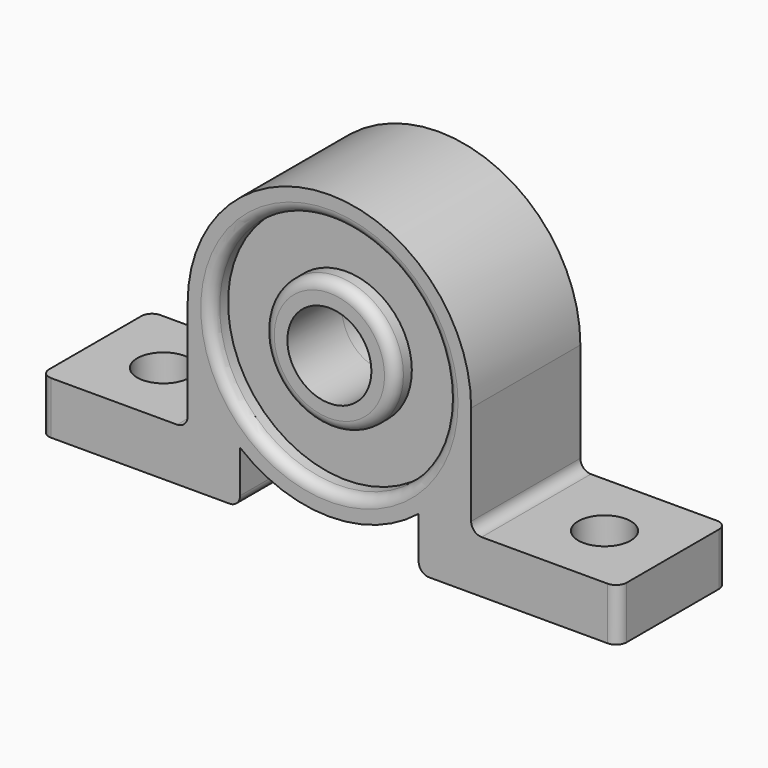
from build123d import *

# Parameters (mm, degrees)
F0_R          = 4
F1_DEPTH      = 6.5
F1_DEPTH_BACK = 6.5
F2_R          = 2.5
F3_DEPTH      = 25
F4_R          = 1
F5_R          = 11.25
F5_R_2        = 6.25
F6_DEPTH      = 2
F7_R          = 11.25
F7_R_2        = 6.25
F8_DEPTH      = 1.5
F9_R          = 1


with BuildPart() as f1:
    # F0 (on Front) → F1 (new body, two sides)
    with BuildSketch(Plane.XZ) as f1_sk:
        with BuildLine():
            Line((-27.5, 5), (-27.5, 0))
            Line((-27.5, 0), (-8.5, 0))
            Line((-8.5, 0), (-8.5, 5))
            Line((-8.5, 5), (-8.5, 5.011912))
            ThreePointArc((-8.5, 5.011912), (-8.492643, 5.005953), (-8.485281, 5))
            ThreePointArc((-8.485281, 5), (0, 2), (8.485281, 5))
            ThreePointArc((8.485281, 5), (8.492643, 5.005953), (8.5, 5.011912))
            Line((8.5, 5.011912), (8.5, 5))
            Line((8.5, 5), (8.5, 0))
            Line((8.5, 0), (27.5, 0))
            Line((27.5, 0), (27.5, 5))
            Line((27.5, 5), (13.5, 5))
            Line((13.5, 5), (13.5, 15.5))
            ThreePointArc((13.5, 15.5), (0, 29), (-13.5, 15.5))
            Line((-13.5, 15.5), (-13.5, 5))
            Line((-13.5, 5), (-27.5, 5))
        make_face()
        with Locations((0, 15.5)):
            Circle(F0_R, mode=Mode.SUBTRACT)
        with BuildLine():
            Line((-8.5, 5.011912), (-8.5, 5))
            Line((-8.5, 5), (-8.485281, 5))
            ThreePointArc((-8.485281, 5), (-8.492643, 5.005953), (-8.5, 5.011912))
        make_face()
        with BuildLine():
            ThreePointArc((8.5, 5.011912), (8.492643, 5.005953), (8.485281, 5))
            Line((8.485281, 5), (8.5, 5))
            Line((8.5, 5), (8.5, 5.011912))
        make_face()
    extrude(amount=F1_DEPTH)
    extrude(f1_sk.sketch, amount=-F1_DEPTH_BACK)

    # F2 (on face) → F3 (cut)
    with BuildSketch(Plane.XY.offset(5)):
        with Locations((-21, 0)):
            Circle(F2_R)
        with Locations((21, 0)):
            Circle(F2_R)
    extrude(amount=-F3_DEPTH, mode=Mode.SUBTRACT)

    # F4
    f4_edges = [f1.edges().sort_by_distance(p)[0] for p in [
        (-27.5, -6.5, 2.5),
        (-27.5, 6.5, 2.5),
        (27.5, -6.5, 2.5),
        (27.5, 6.5, 2.5),
        (13.5, 0, 5),
        (8.5, 0, 0),
        (-8.5, 0, 0),
        (-13.5, 0, 5),
    ]]
    fillet(f4_edges, radius=F4_R)

    # F5 (on face) → F6 (cut)
    with BuildSketch(Plane.XZ.offset(6.5)):
        with Locations((0, 15.5)):
            Circle(F5_R)
        with Locations((0, 15.5)):
            Circle(F5_R_2, mode=Mode.SUBTRACT)
    extrude(amount=-F6_DEPTH, mode=Mode.SUBTRACT)

    # F7 (on face) → F8 (cut)
    with BuildSketch(Plane(origin=(0, 6.5, 0), x_dir=(-1, 0, 0), z_dir=(0, 1, 0))):
        with Locations((0, 15.5)):
            Circle(F7_R)
        with Locations((0, 15.5)):
            Circle(F7_R_2, mode=Mode.SUBTRACT)
    extrude(amount=-F8_DEPTH, mode=Mode.SUBTRACT)

    # F9
    f9_edges = [f1.edges().sort_by_distance(p)[0] for p in [
        (11.25, 6.5, 15.5),
        (6.25, 6.5, 15.5),
        (-11.25, -6.5, 15.5),
        (-6.25, -6.5, 15.5),
    ]]
    fillet(f9_edges, radius=F9_R)


solid = f1.part
